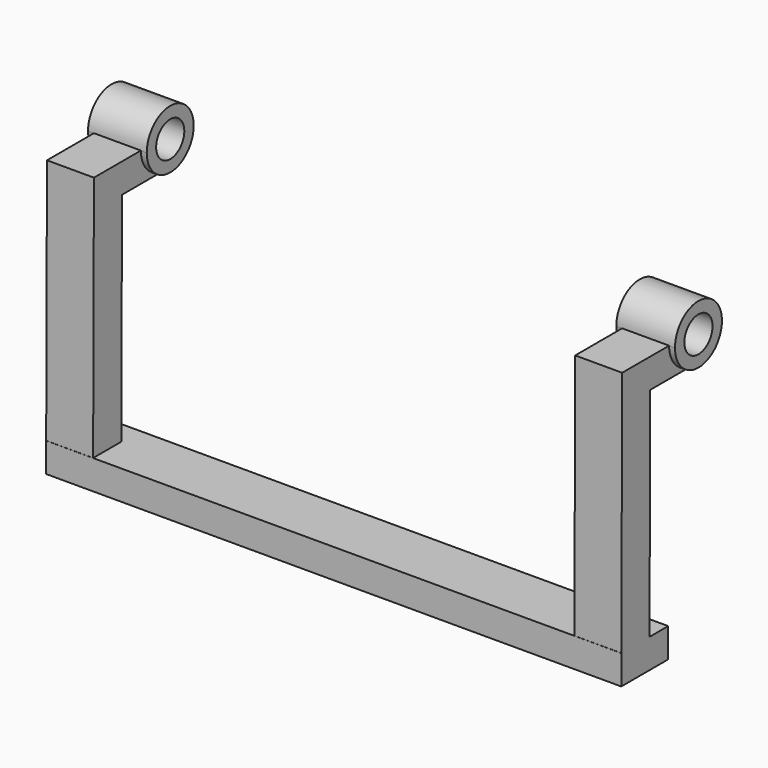
from build123d import *

# Parameters (mm, degrees)
F1_DEPTH      = 6.35
F1_DEPTH_BACK = 6.35
F2_DEPTH      = 5.08
F2_DEPTH_BACK = 5.08
F6_DEPTH      = 120.14245


with BuildPart() as f1:
    # F0 (on Right) → F1 (new body, two sides)
    with BuildSketch(Plane.YZ) as f1_sk:
        with BuildLine():
            ThreePointArc((6.35, 0), (0, 6.35), (-6.35, 0))
            ThreePointArc((-6.35, 0), (-4.490128, -4.490128), (0, -6.35))
            ThreePointArc((0, -6.35), (4.490128, -4.490128), (6.35, 0))
        make_face()
        with BuildLine():
            ThreePointArc((-3.81, 0), (0, 3.81), (3.81, 0))
            ThreePointArc((3.81, 0), (0, -3.81), (-3.81, 0))
        make_face(mode=Mode.SUBTRACT)
    extrude(amount=F1_DEPTH)
    extrude(f1_sk.sketch, amount=-F1_DEPTH_BACK)

    # F0 (on Right) → F2 (join, two sides)
    with BuildSketch(Plane.YZ) as f2_sk:
        with BuildLine():
            ThreePointArc((0, -6.35), (-4.490128, -4.490128), (-6.35, 0))
            Line((-6.35, 0), (-19.05, 0))
            Line((-19.05, 0), (-19.264068, -53.31585))
            Line((-19.264068, -53.31585), (-11.644068, -53.31585))
            Line((-11.644068, -53.31585), (-11.455496, -6.35))
            Line((-11.455496, -6.35), (0, -6.35))
        make_face()
        Polygon((-19.289564, -59.66585), (-19.264068, -53.31585), (-19.289564, -53.31585), align=None)
        Polygon((-11.644068, -53.31585), (-19.264068, -53.31585), (-19.289564, -59.66585), (-11.669564, -59.66585), align=None)
        Polygon((-6.589564, -53.31585), (-11.644068, -53.31585), (-11.669564, -59.66585), (-6.589564, -59.66585), align=None)
    extrude(amount=F2_DEPTH)
    extrude(f2_sk.sketch, amount=-F2_DEPTH_BACK)



with BuildPart() as f4_1:
    # F4: instance of F1
    add(f1.part.mirror(Plane.YZ.offset(-57.15)))


with BuildPart() as f1_1:
    add(f1.part)

    add(f4_1.part)  # F6 merges F4_1
    # F5 (on face) → F6 (join)
    with BuildSketch(Plane.YZ.offset(5.08)):
        Polygon((-11.644068, -53.31585), (-19.264068, -53.31585), (-19.289564, -53.31585), (-19.289564, -59.66585), (-6.589564, -59.66585), (-6.589564, -53.31585), align=None)
    extrude(amount=-F6_DEPTH)


solid = f1_1.part
